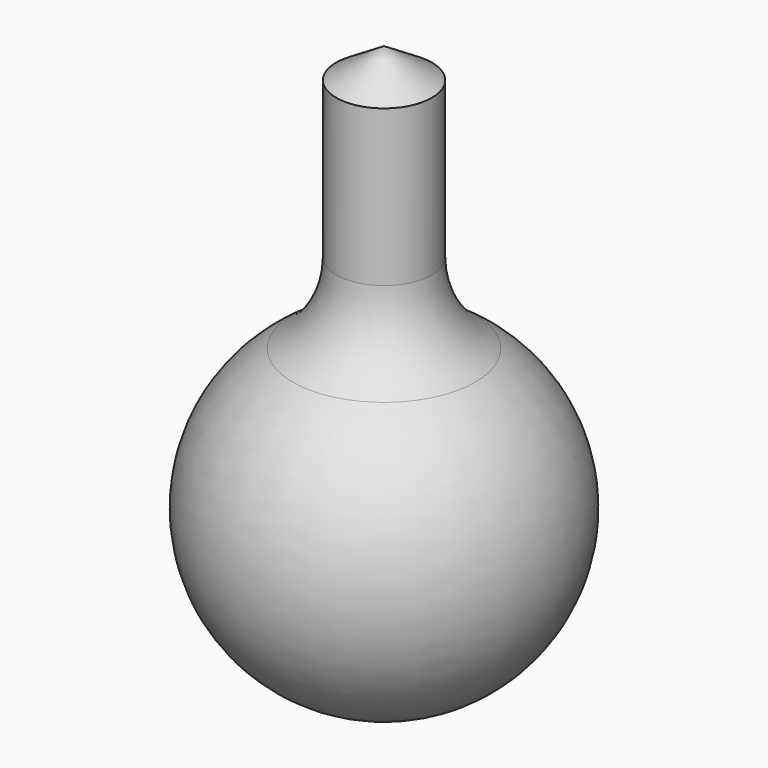
from build123d import *


with BuildPart() as f1:
    # F0 (on Front) → F1 (revolve)
    with BuildSketch(Plane.XZ):
        with BuildLine():
            Line((12.7, -7.963251), (0, 0))
            Line((0, 0), (0, -152.4))
            ThreePointArc((0, -152.4), (42.613392, -120.595208), (24.245455, -70.694659))
            ThreePointArc((24.245455, -70.694659), (15.772154, -61.514868), (12.7, -49.405893))
            Line((12.7, -49.405893), (12.7, -7.963251))
        make_face()
    revolve(axis=Axis((0, 0, 20.340355), (0, 0, 1)))


solid = f1.part
